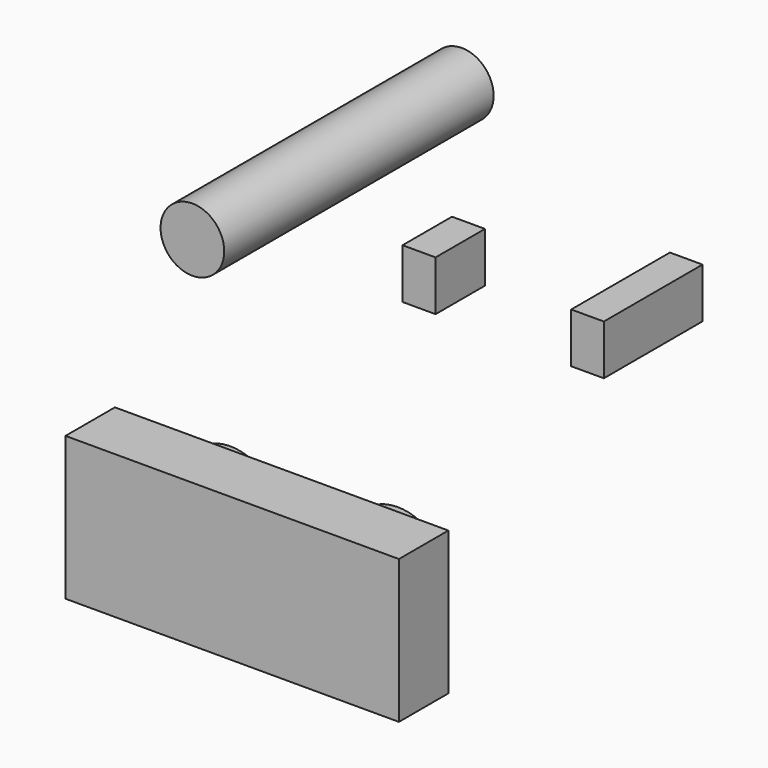
from build123d import *

# Parameters (mm, degrees)
F0_W     = 15.87
F0_H     = 6.824922
F1_DEPTH = 2.94
F2_R     = 2.415
F3_DEPTH = 1.78
F4_R     = 1.515
F5_DEPTH = 16.03
F6_W     = 1.552422
F6_H     = 2.38
F7_DEPTH = 2.93
F6_W_2   = 1.570921
F8_DEPTH = 2.94


with BuildPart() as f1:
    # F0 (on Front) → F1 (new body)
    with BuildSketch(Plane.XZ):
        with Locations((-7.935, 3.412461)):
            Rectangle(F0_W, F0_H)
    extrude(amount=F1_DEPTH)

    # F2 (on Front) → F3 (join)
    with BuildSketch(Plane.XZ):
        with Locations((-11.800791, 3.379709)):
            Circle(F2_R)
        with Locations((-3.830907, 3.422793)):
            Circle(F2_R)
    extrude(amount=-F3_DEPTH)


with BuildPart() as f5:
    # F4 (on Front) → F5 (new body)
    with BuildSketch(Plane.XZ):
        with Locations((-12.182738, 15.052261)):
            Circle(F4_R)
    extrude(amount=-F5_DEPTH)


with BuildPart() as f7:
    # F6 (on face) → F7 (new body)
    with BuildSketch(Plane(origin=(0, 16.03, 0), x_dir=(-1, 0, 0), z_dir=(0, 1, 0))):
        with Locations((3.847345, 8.071937)):
            Rectangle(F6_W, F6_H)
    extrude(amount=F7_DEPTH)

    # F6 (on face) → F8 (join)
    with BuildSketch(Plane(origin=(0, 16.03, 0), x_dir=(-1, 0, 0), z_dir=(0, 1, 0))):
        with Locations((11.865937, 8.153642)):
            Rectangle(F6_W_2, F6_H)
        with Locations((3.847345, 8.071937)):
            Rectangle(F6_W, F6_H)
    extrude(amount=-F8_DEPTH)


solid = Compound([f1.part, f5.part, f7.part])
